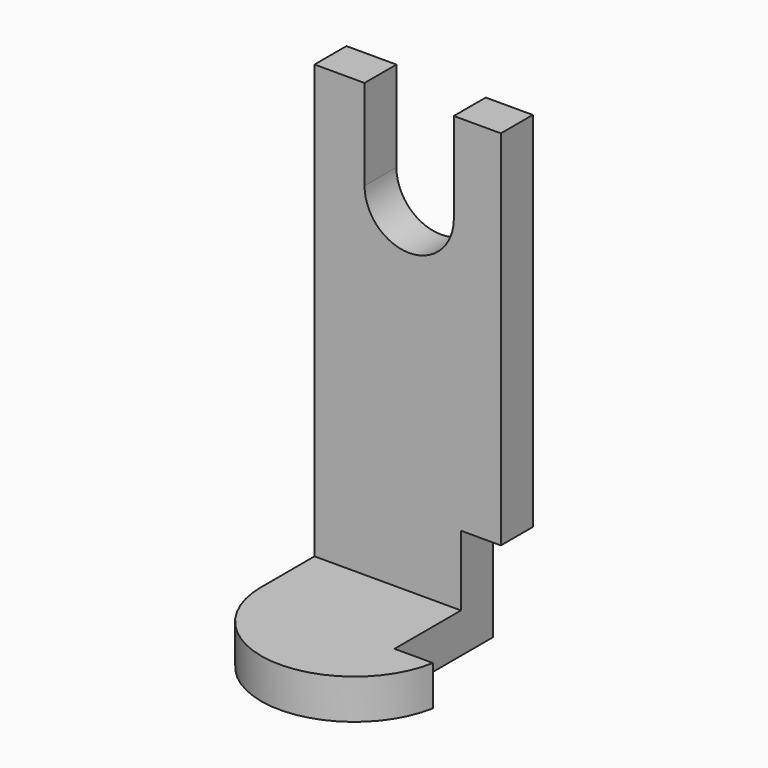
from build123d import *

# Parameters (mm, degrees)
F1_DEPTH = 12.7
F2_W     = 59.3439098448
F2_H     = 33.9378900826
F3_DEPTH = 12.7
F4_W     = 39.1593687236
F4_H     = 35.0508086056
F5_DEPTH = 12.7


with BuildPart() as f1:
    # F0 (on Front) → F1 (new body)
    with BuildSketch(Plane.XZ):
        with BuildLine():
            Line((-36.9714461267, 53.8455955684), (-52.897606045, 53.8455955684))
            Line((-52.897606045, 53.8455955684), (-52.897606045, -84.0487536043))
            Line((-52.897606045, -84.0487536043), (6.4463037997, -84.0487536043))
            Line((6.4463037997, -84.0487536043), (6.4463037997, 53.8455955684))
            Line((6.4463037997, 53.8455955684), (-8.5318721831, 53.8455955684))
            Line((-8.5318721831, 53.8455955684), (-8.5318721831, 25.0268243253))
            ThreePointArc((-8.5318721831, 25.0268243253), (-22.7516591549, 10.8070373535), (-36.9714461267, 25.0268243253))
            Line((-36.9714461267, 25.0268243253), (-36.9714461267, 53.8455955684))
        make_face()
    extrude(amount=F1_DEPTH)

    # F2 (on face) → F3 (join)
    with BuildSketch(Plane(origin=(0, 0, -84.0487536043), x_dir=(1, 0, 0), z_dir=(0, 0, -1))):
        with Locations((-23.2256511226, 16.9689450413)):
            Rectangle(F2_W, F2_H)
        with BuildLine():
            Line((-52.897606045, 33.9378900826), (6.4463037997, 33.9378900826))
            ThreePointArc((6.4463037997, 33.9378900826), (-23.2256511226, 63.609845005), (-52.897606045, 33.9378900826))
        make_face()
    extrude(amount=F3_DEPTH)

    # F4 (on face) → F5 (cut)
    with BuildSketch(Plane.YZ.offset(6.4463037997)):
        with Locations((-19.5796843618, -79.2233493015)):
            Rectangle(F4_W, F4_H)
    extrude(amount=-F5_DEPTH, mode=Mode.SUBTRACT)


solid = f1.part
